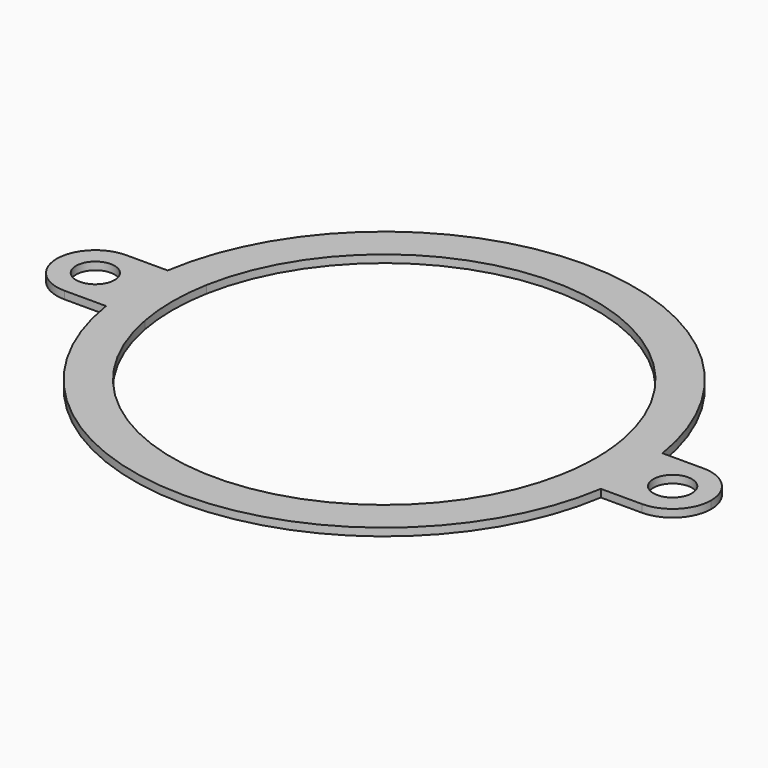
from build123d import *

# Parameters (mm, degrees)
F0_R     = 5
F1_DEPTH = 2


with BuildPart() as f1:
    # F0 (on Top) → F1 (new body)
    with BuildSketch(Plane.XY):
        with BuildLine():
            Line((54.083269132, 10), (64.2261628933, 10))
            ThreePointArc((64.2261628933, 10), (0, 65), (-64.2261628933, 10))
            Line((-64.2261628933, 10), (-54.083269132, 10))
            ThreePointArc((-54.083269132, 10), (0, 55), (54.083269132, 10))
        make_face()
        with BuildLine():
            ThreePointArc((64.9830207232, -1.4856034775), (64.8720541596, 0), (64.9830207232, 1.4856034775))
            ThreePointArc((64.9830207232, 1.4856034775), (64.7447064998, 5.7552567496), (64.2261628933, 10))
            Line((64.2261628933, 10), (54.083269132, 10))
            ThreePointArc((54.083269132, 10), (54.7703377854, 5.0209659301), (55, 0))
            ThreePointArc((55, 0), (54.7703377854, -5.0209659301), (54.083269132, -10))
            Line((54.083269132, -10), (64.2261628933, -10))
            ThreePointArc((64.2261628933, -10), (64.7447064998, -5.7552567496), (64.9830207232, -1.4856034775))
        make_face()
        with BuildLine():
            ThreePointArc((64.2261628933, 10), (64.7447064998, 5.7552567496), (64.9830207232, 1.4856034775))
            ThreePointArc((64.9830207232, 1.4856034775), (68.3473332758, 7.5781275647), (74.8720541596, 10))
            Line((74.8720541596, 10), (64.2261628933, 10))
        make_face()
        with BuildLine():
            ThreePointArc((64.9830207232, 1.4856034775), (64.9957550422, 0.7428502521), (65, 0))
            ThreePointArc((65, 0), (64.9957550422, -0.7428502521), (64.9830207232, -1.4856034775))
            ThreePointArc((64.9830207232, -1.4856034775), (68.3473332758, -7.5781275647), (74.8720541596, -10))
            ThreePointArc((74.8720541596, -10), (81.9431219715, -7.0710678119), (84.8720541596, 0))
            ThreePointArc((84.8720541596, 0), (81.9431219715, 7.0710678119), (74.8720541596, 10))
            ThreePointArc((74.8720541596, 10), (68.3473332758, 7.5781275647), (64.9830207232, 1.4856034775))
        make_face()
        with Locations((74.8720541596, 0)):
            Circle(F0_R, mode=Mode.SUBTRACT)
        with BuildLine():
            ThreePointArc((74.8720541596, -10), (68.3473332758, -7.5781275647), (64.9830207232, -1.4856034775))
            ThreePointArc((64.9830207232, -1.4856034775), (64.7447064998, -5.7552567496), (64.2261628933, -10))
            Line((64.2261628933, -10), (74.8720541596, -10))
        make_face()
        with BuildLine():
            ThreePointArc((-64.2261628933, -10), (0, -65), (64.2261628933, -10))
            Line((64.2261628933, -10), (54.083269132, -10))
            ThreePointArc((54.083269132, -10), (0, -55), (-54.083269132, -10))
            Line((-54.083269132, -10), (-64.2261628933, -10))
        make_face()
        with BuildLine():
            ThreePointArc((-64.9992465548, -0.3129653476), (-65, 0), (-64.9992465548, 0.3129653476))
            ThreePointArc((-64.9992465548, 0.3129653476), (-68.0348097105, 7.1808653338), (-74.9943480303, 10))
            ThreePointArc((-74.9943480303, 10), (-84.9943479896, -1.92e-08), (-74.994347992, -10))
            ThreePointArc((-74.994347992, -10), (-68.0348096967, -7.1808653204), (-64.9992465548, -0.3129653476))
        make_face()
        with Locations((-74.9943479896, 0)):
            Circle(F0_R, mode=Mode.SUBTRACT)
        with BuildLine():
            Line((-74.994347992, -10), (-64.2261628933, -10))
            ThreePointArc((-64.2261628933, -10), (-64.7939910165, -5.1709504109), (-64.9992465548, -0.3129653476))
            ThreePointArc((-64.9992465548, -0.3129653476), (-68.0348096967, -7.1808653204), (-74.994347992, -10))
        make_face()
        with BuildLine():
            ThreePointArc((-64.9992465548, 0.3129653476), (-64.7939910165, 5.1709504109), (-64.2261628933, 10))
            Line((-64.2261628933, 10), (-74.9943480303, 10))
            ThreePointArc((-74.9943480303, 10), (-68.0348097105, 7.1808653338), (-64.9992465548, 0.3129653476))
        make_face()
        with BuildLine():
            Line((-54.083269132, 10), (-64.2261628933, 10))
            ThreePointArc((-64.2261628933, 10), (-64.7939910165, 5.1709504109), (-64.9992465548, 0.3129653476))
            ThreePointArc((-64.9992465548, 0.3129653476), (-64.9955727059, 0.1565018408), (-64.9943479896, 0))
            ThreePointArc((-64.9943479896, 0), (-64.9955727059, -0.1565018408), (-64.9992465548, -0.3129653476))
            ThreePointArc((-64.9992465548, -0.3129653476), (-64.7939910165, -5.1709504109), (-64.2261628933, -10))
            Line((-64.2261628933, -10), (-54.083269132, -10))
            ThreePointArc((-54.083269132, -10), (-55, 0), (-54.083269132, 10))
        make_face()
        with BuildLine():
            ThreePointArc((-64.9943479896, 0), (-64.9955727059, 0.1565018408), (-64.9992465548, 0.3129653476))
            ThreePointArc((-64.9992465548, 0.3129653476), (-65, 0), (-64.9992465548, -0.3129653476))
            ThreePointArc((-64.9992465548, -0.3129653476), (-64.9955727059, -0.1565018408), (-64.9943479896, 0))
        make_face()
        with BuildLine():
            ThreePointArc((64.9830207232, -1.4856034775), (64.9957550422, -0.7428502521), (65, 0))
            ThreePointArc((65, 0), (64.9957550422, 0.7428502521), (64.9830207232, 1.4856034775))
            ThreePointArc((64.9830207232, 1.4856034775), (64.8720541596, 0), (64.9830207232, -1.4856034775))
        make_face()
    extrude(amount=F1_DEPTH)


solid = f1.part
